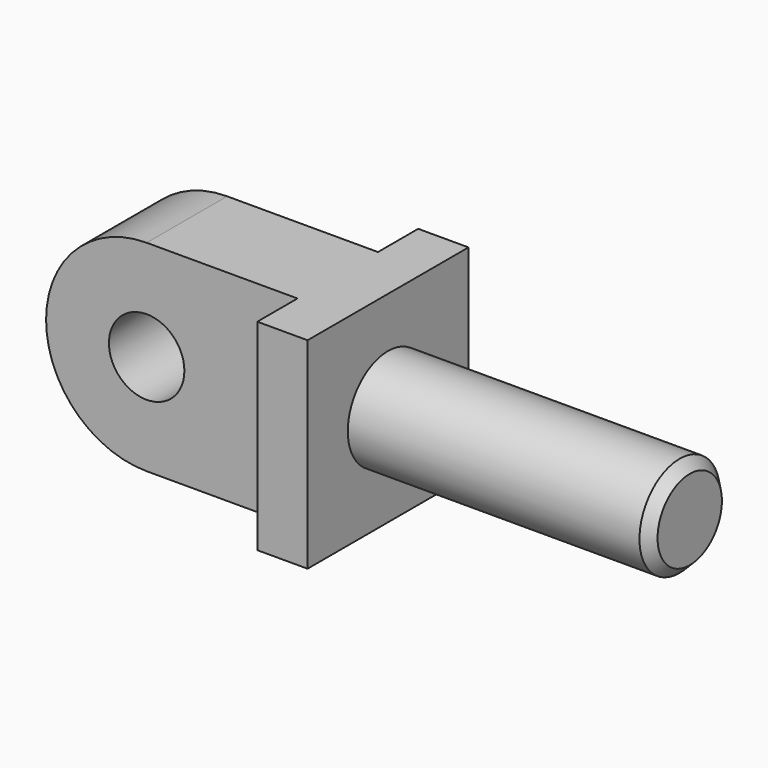
from build123d import *

# Parameters (mm, degrees)
F0_R     = 9.525
F1_DEPTH = 25.4
F2_W     = 12.7
F2_H     = 50.8
F3_DEPTH = 38.1
F4_DEPTH = 25.4
F5_R     = 12.7
F6_DEPTH = 76.2
F7_SIZE2 = 2.54
F7_SIZE  = 2.54


with BuildPart() as f1:
    # F0 (on Front) → F1 (new body, symmetric)
    with BuildSketch(Plane.XZ):
        with BuildLine():
            Line((50.8, 25.4), (0, 25.4))
            ThreePointArc((0, 25.4), (-25.4, 0), (0, -25.4))
            Line((0, -25.4), (50.8, -25.4))
            Line((50.8, -25.4), (50.8, 25.4))
        make_face()
        Circle(F0_R, mode=Mode.SUBTRACT)
    extrude(amount=F1_DEPTH, both=True)

    # F2 (on Right) → F3 (cut)
    with BuildSketch(Plane.YZ):
        with Locations((19.05, 0)):
            Rectangle(F2_W, F2_H)
        with Locations((-19.05, 0)):
            Rectangle(F2_W, F2_H)
    extrude(amount=F3_DEPTH, mode=Mode.SUBTRACT)

    # F2 (on Right) → F4 (cut)
    with BuildSketch(Plane.YZ):
        with Locations((19.05, 0)):
            Rectangle(F2_W, F2_H)
        with Locations((-19.05, 0)):
            Rectangle(F2_W, F2_H)
    extrude(amount=-F4_DEPTH, mode=Mode.SUBTRACT)

    # F5 (on face) → F6 (join)
    with BuildSketch(Plane.YZ.offset(50.8)):
        Circle(F5_R)
    extrude(amount=F6_DEPTH)

    # F7
    f7_edges = [f1.edges().sort_by_distance(p)[0] for p in [
        (127, -12.7, 0),
    ]]
    chamfer(f7_edges, length=F7_SIZE, length2=F7_SIZE2)


solid = f1.part
